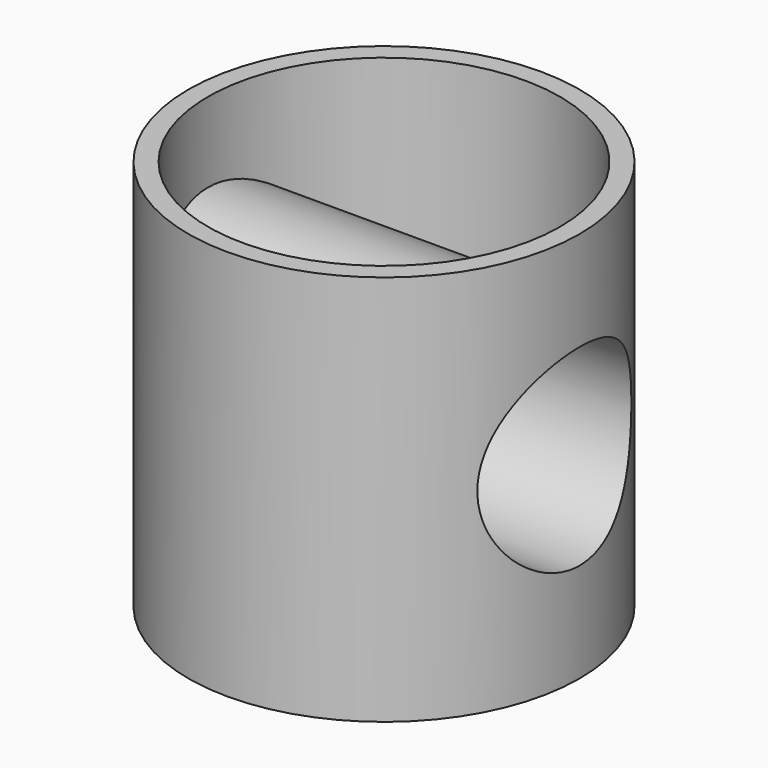
from build123d import *

# Parameters (mm, degrees)
F0_R     = 25.4
F1_DEPTH = 25.4
F2_R     = 12.495543
F3_DEPTH = 43.18
F4_T     = -2.54


with BuildPart() as f1:
    # F0 (on Top) → F1 (new body, symmetric)
    with BuildSketch(Plane.XY):
        Circle(F0_R)
    extrude(amount=F1_DEPTH, both=True)

    # F2 (on Right) → F3 (cut, symmetric)
    with BuildSketch(Plane.YZ):
        Circle(F2_R)
    extrude(amount=F3_DEPTH, both=True, mode=Mode.SUBTRACT)

    # F4
    f4_openings = [f1.faces().sort_by_distance(p)[0] for p in [
        (0, 0, 25.4),
        (0, 0, -25.4),
    ]]
    offset(amount=F4_T, openings=f4_openings)


solid = f1.part
